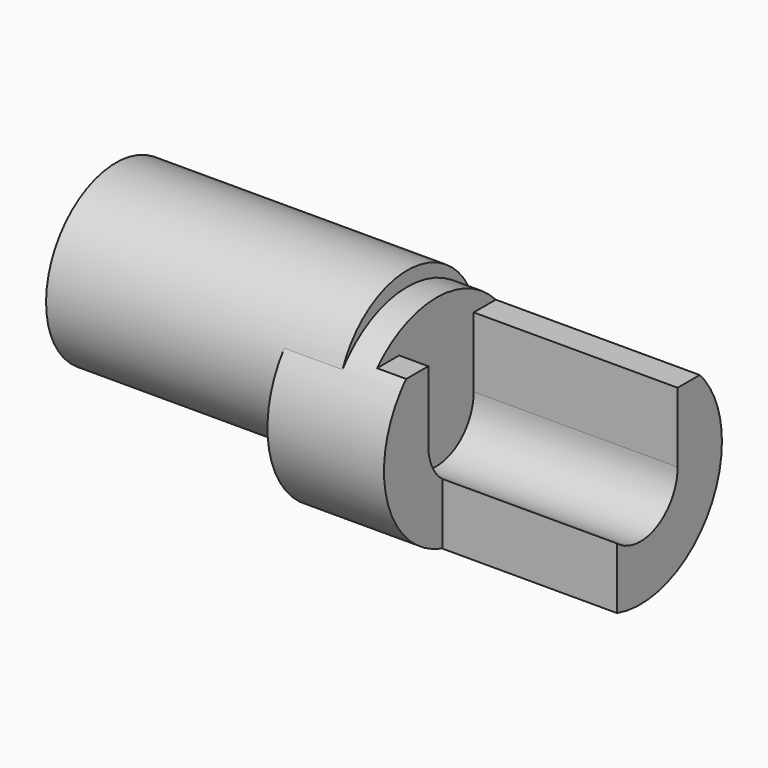
from build123d import *

# Parameters (mm, degrees)
F1_DEPTH = 5
F3_DEPTH = 35
F5_DEPTH = 5
F6_DEPTH = 10
F7_DEPTH = 50


with BuildPart() as f1:
    # F0 (on Right) → F1 (new body)
    with BuildSketch(Plane.YZ):
        with BuildLine():
            ThreePointArc((17.5, 0), (16.5770023354, 5.6082968512), (13.9053721633, 10.625))
            ThreePointArc((13.9053721633, 10.625), (14.7238001625, 7.8652589369), (15, 5))
            ThreePointArc((15, 5), (8.6602540378, -7.2474487139), (-5, -9.1421356237))
            Line((-5, -9.1421356237), (-5, -16.7705098312))
            ThreePointArc((-5, -16.7705098312), (10.4582503317, -14.0312152004), (17.5, 0))
        make_face()
        with BuildLine():
            ThreePointArc((13.9053721633, 10.625), (13.3392841662, 11.3275548082), (12.7377392029, 12))
            Line((12.7377392029, 12), (8, 12))
            Line((8, 12), (8, 0))
            ThreePointArc((8, 0), (3.4641016151, -7.2111025509), (-5, -6.2449979984))
            Line((-5, -6.2449979984), (-5, -9.1421356237))
            ThreePointArc((-5, -9.1421356237), (8.6602540378, -7.2474487139), (15, 5))
            ThreePointArc((15, 5), (14.7238001625, 7.8652589369), (13.9053721633, 10.625))
        make_face()
        with BuildLine():
            Line((8, 12), (12.7377392029, 12))
            ThreePointArc((12.7377392029, 12), (0, 17.5), (-12.7377392029, 12))
            Line((-12.7377392029, 12), (-8, 12))
            Line((-8, 12), (-8, 0))
            ThreePointArc((-8, 0), (-7.2111025509, -3.4641016151), (-5, -6.2449979984))
            ThreePointArc((-5, -6.2449979984), (3.4641016151, -7.2111025509), (8, 0))
            Line((8, 0), (8, 12))
        make_face()
        with BuildLine():
            Line((-8, 12), (-12.7377392029, 12))
            ThreePointArc((-12.7377392029, 12), (-13.3392841662, 11.3275548082), (-13.9053721633, 10.625))
            ThreePointArc((-13.9053721633, 10.625), (-13.6761905094, -1.1613158619), (-5, -9.1421356237))
            Line((-5, -9.1421356237), (-5, -6.2449979984))
            ThreePointArc((-5, -6.2449979984), (-7.2111025509, -3.4641016151), (-8, 0))
            Line((-8, 0), (-8, 12))
        make_face()
        with BuildLine():
            ThreePointArc((-5, -9.1421356237), (-13.6761905094, -1.1613158619), (-13.9053721633, 10.625))
            ThreePointArc((-13.9053721633, 10.625), (-16.6427691172, -5.4100125798), (-5, -16.7705098312))
            Line((-5, -16.7705098312), (-5, -9.1421356237))
        make_face()
    extrude(amount=F1_DEPTH)

    # F2 (on face) → F3 (join)
    with BuildSketch(Plane.YZ.offset(5)):
        with BuildLine():
            ThreePointArc((15, 5), (8.6602540378, -7.2474487139), (-5, -9.1421356237))
            Line((-5, -9.1421356237), (-5, -16.7705098312))
            ThreePointArc((-5, -16.7705098312), (10.4582503317, -14.0312152004), (17.5, 0))
            ThreePointArc((17.5, 0), (16.5770023354, 5.6082968512), (13.9053721633, 10.625))
            ThreePointArc((13.9053721633, 10.625), (14.7238001625, 7.8652589369), (15, 5))
        make_face()
        with BuildLine():
            ThreePointArc((8, 0), (3.4641016151, -7.2111025509), (-5, -6.2449979984))
            Line((-5, -6.2449979984), (-5, -9.1421356237))
            ThreePointArc((-5, -9.1421356237), (8.6602540378, -7.2474487139), (15, 5))
            ThreePointArc((15, 5), (14.7238001625, 7.8652589369), (13.9053721633, 10.625))
            ThreePointArc((13.9053721633, 10.625), (13.3392841662, 11.3275548082), (12.7377392029, 12))
            Line((12.7377392029, 12), (8, 12))
            Line((8, 12), (8, 0))
        make_face()
    extrude(amount=F3_DEPTH)

    # F4 (on face) → F5 (join)
    with BuildSketch(Plane.YZ.offset(5)):
        with BuildLine():
            ThreePointArc((-13.9053721633, 10.625), (-16.6427691172, -5.4100125798), (-5, -16.7705098312))
            Line((-5, -16.7705098312), (-5, -9.1421356237))
            ThreePointArc((-5, -9.1421356237), (-13.6761905094, -1.1613158619), (-13.9053721633, 10.625))
        make_face()
        with BuildLine():
            ThreePointArc((-13.9053721633, 10.625), (-13.6761905094, -1.1613158619), (-5, -9.1421356237))
            Line((-5, -9.1421356237), (-5, -6.2449979984))
            ThreePointArc((-5, -6.2449979984), (-7.2111025509, -3.4641016151), (-8, 0))
            Line((-8, 0), (-8, 12))
            Line((-8, 12), (-12.7377392029, 12))
            ThreePointArc((-12.7377392029, 12), (-13.3392841662, 11.3275548082), (-13.9053721633, 10.625))
        make_face()
    extrude(amount=F5_DEPTH)

    # F0 (on Right) → F6 (join)
    with BuildSketch(Plane.YZ):
        with BuildLine():
            ThreePointArc((-5, -9.1421356237), (-13.6761905094, -1.1613158619), (-13.9053721633, 10.625))
            ThreePointArc((-13.9053721633, 10.625), (-16.6427691172, -5.4100125798), (-5, -16.7705098312))
            Line((-5, -16.7705098312), (-5, -9.1421356237))
        make_face()
    extrude(amount=-F6_DEPTH)

    # F0 (on Right) → F7 (join)
    with BuildSketch(Plane.YZ):
        with BuildLine():
            ThreePointArc((-12.7377392029, 12), (0, 17.5), (12.7377392029, 12))
            ThreePointArc((12.7377392029, 12), (13.3392841662, 11.3275548082), (13.9053721633, 10.625))
            ThreePointArc((13.9053721633, 10.625), (0, 20), (-13.9053721633, 10.625))
            ThreePointArc((-13.9053721633, 10.625), (-13.3392841662, 11.3275548082), (-12.7377392029, 12))
        make_face()
        with BuildLine():
            Line((8, 12), (12.7377392029, 12))
            ThreePointArc((12.7377392029, 12), (0, 17.5), (-12.7377392029, 12))
            Line((-12.7377392029, 12), (-8, 12))
            Line((-8, 12), (-8, 0))
            ThreePointArc((-8, 0), (-7.2111025509, -3.4641016151), (-5, -6.2449979984))
            ThreePointArc((-5, -6.2449979984), (3.4641016151, -7.2111025509), (8, 0))
            Line((8, 0), (8, 12))
        make_face()
        with BuildLine():
            Line((-8, 12), (-12.7377392029, 12))
            ThreePointArc((-12.7377392029, 12), (-13.3392841662, 11.3275548082), (-13.9053721633, 10.625))
            ThreePointArc((-13.9053721633, 10.625), (-13.6761905094, -1.1613158619), (-5, -9.1421356237))
            Line((-5, -9.1421356237), (-5, -6.2449979984))
            ThreePointArc((-5, -6.2449979984), (-7.2111025509, -3.4641016151), (-8, 0))
            Line((-8, 0), (-8, 12))
        make_face()
        with BuildLine():
            ThreePointArc((13.9053721633, 10.625), (13.3392841662, 11.3275548082), (12.7377392029, 12))
            Line((12.7377392029, 12), (8, 12))
            Line((8, 12), (8, 0))
            ThreePointArc((8, 0), (3.4641016151, -7.2111025509), (-5, -6.2449979984))
            Line((-5, -6.2449979984), (-5, -9.1421356237))
            ThreePointArc((-5, -9.1421356237), (8.6602540378, -7.2474487139), (15, 5))
            ThreePointArc((15, 5), (14.7238001625, 7.8652589369), (13.9053721633, 10.625))
        make_face()
    extrude(amount=-F7_DEPTH)


solid = f1.part
